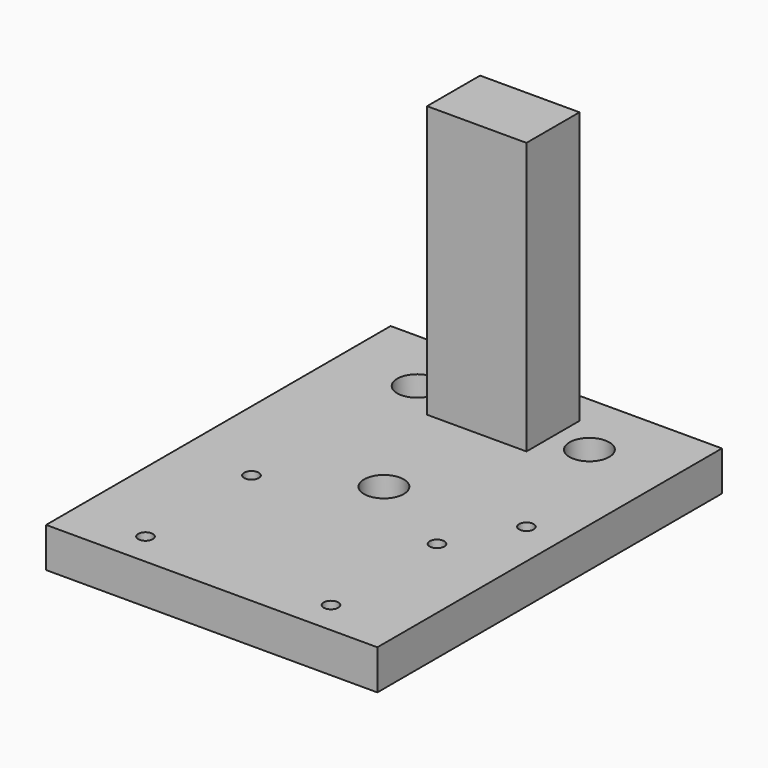
from build123d import *

# Parameters (mm, degrees)
F0_W           = 50
F0_H           = 65
F1_DEPTH       = 6
F2_W           = 15
F2_H           = 10
F3_DEPTH       = 41
F5_D           = 3.2
F5_CBORE_D     = 6
F5_CBORE_DEPTH = 3.5
F7_D           = 2.2


with BuildPart() as f1:
    # F0 (on Top) → F1 (new body)
    with BuildSketch(Plane.XY):
        with Locations((25, 32.5)):
            Rectangle(F0_W, F0_H)
    extrude(amount=F1_DEPTH)

    # F2 (on face) → F3 (join)
    with BuildSketch(Plane.XY.offset(6)):
        with Locations((25, 55)):
            Rectangle(F2_W, F2_H)
    extrude(amount=F3_DEPTH)

    # F5 (through all)
    with Locations(Plane.XY.offset(6)):
        with Locations((12, 55), (38, 55), (25, 32.48334)):
            CounterBoreHole(F5_D / 2, F5_CBORE_D / 2, F5_CBORE_DEPTH)

    # F7 (through all)
    with Locations(Plane.XY.offset(6)):
        with Locations((11, 25), (39, 25), (39, 5), (11, 5), (44.5, 35)):
            Hole(F7_D / 2)


solid = f1.part
